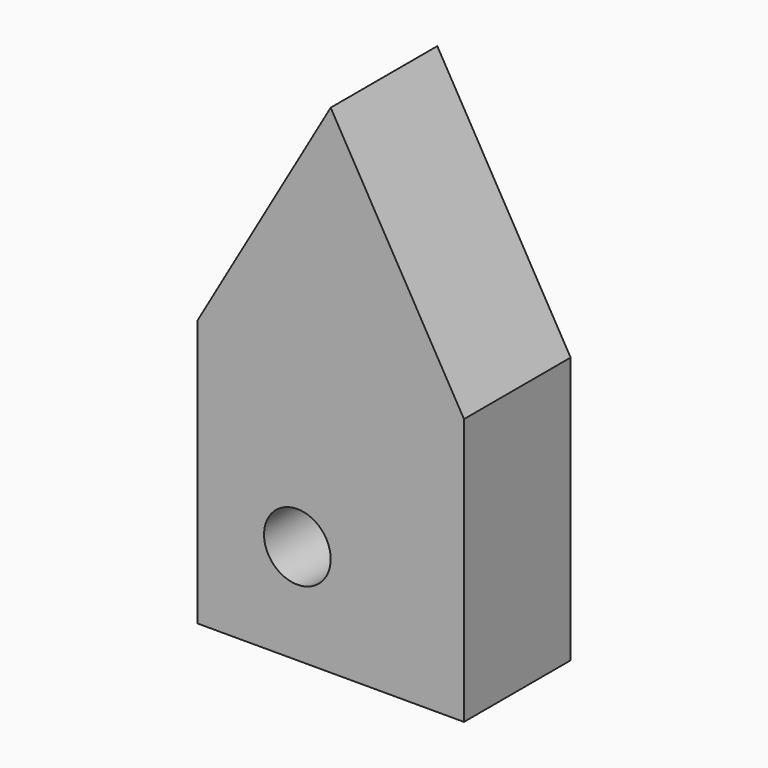
from build123d import *

# Parameters (mm, degrees)
F0_R     = 6.35
F1_DEPTH = 25.4


with BuildPart() as f1:
    # F0 (on Front) → F1 (new body)
    with BuildSketch(Plane.XZ):
        Polygon((-6.35, -25.4), (25.4, -25.4), (25.4, 25.4), (-25.4, 25.4), (-25.4, -6.35), (-25.4, -25.4), align=None)
        with Locations((-6.35, -6.35)):
            Circle(F0_R, mode=Mode.SUBTRACT)
        Polygon((-25.4, 25.4), (25.4, 25.4), (0, 69.394091), align=None)
    extrude(amount=F1_DEPTH)


solid = f1.part
